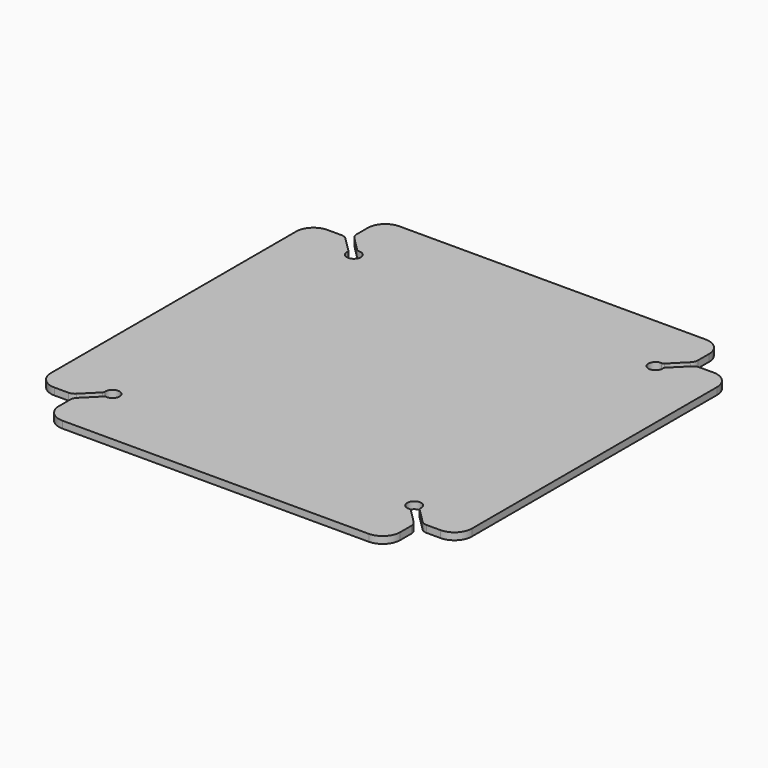
from build123d import *

# Parameters (mm, degrees)
F1_DEPTH = 3.175


with BuildPart() as f1:
    # F0 (on Top) → F1 (new body)
    with BuildSketch(Plane.XY):
        with BuildLine():
            Line((95.5675, 0), (95.5675, 69.5325))
            ThreePointArc((95.5675, 69.5325), (93.24266, 75.14516), (87.63, 77.47))
            Line((87.63, 77.47), (81.293225, 77.47))
            ThreePointArc((81.293225, 77.47), (79.835201, 77.179981), (78.599148, 76.354077))
            Line((78.599148, 76.354077), (72.004551, 69.759481))
            ThreePointArc((72.004551, 69.759481), (71.709187, 69.295875), (71.637399, 68.750882))
            ThreePointArc((71.637399, 68.750882), (66.229392, 66.229386), (68.750888, 71.637393))
            ThreePointArc((68.750888, 71.637393), (69.295881, 71.709181), (69.759487, 72.004545))
            Line((69.759487, 72.004545), (76.354077, 78.599134))
            ThreePointArc((76.354077, 78.599134), (77.179981, 79.835187), (77.47, 81.293211))
            Line((77.47, 81.293211), (77.47, 87.63))
            ThreePointArc((77.47, 87.63), (75.14516, 93.24266), (69.5325, 95.5675))
            Line((69.5325, 95.5675), (-69.5325, 95.5675))
            ThreePointArc((-69.5325, 95.5675), (-75.14516, 93.24266), (-77.47, 87.63))
            Line((-77.47, 87.63), (-77.47, 81.293211))
            ThreePointArc((-77.47, 81.293211), (-77.179981, 79.835187), (-76.354077, 78.599134))
            Line((-76.354077, 78.599134), (-69.759487, 72.004545))
            ThreePointArc((-69.759487, 72.004545), (-69.295881, 71.709181), (-68.750888, 71.637393))
            ThreePointArc((-68.750888, 71.637393), (-66.229392, 66.229386), (-71.637399, 68.750882))
            ThreePointArc((-71.637399, 68.750882), (-71.709187, 69.295875), (-72.004551, 69.759481))
            Line((-72.004551, 69.759481), (-78.599148, 76.354077))
            ThreePointArc((-78.599148, 76.354077), (-79.835201, 77.179981), (-81.293225, 77.47))
            Line((-81.293225, 77.47), (-87.63, 77.47))
            ThreePointArc((-87.63, 77.47), (-93.24266, 75.14516), (-95.5675, 69.5325))
            Line((-95.5675, 69.5325), (-95.5675, 0))
            Line((-95.5675, 0), (95.5675, 0))
        make_face()
    extrude(amount=F1_DEPTH)

    # F2: F1 across plane


with BuildPart() as f1_1:
    add(f1.part)
    add(f1.part.mirror(Plane.XZ))


solid = f1_1.part
